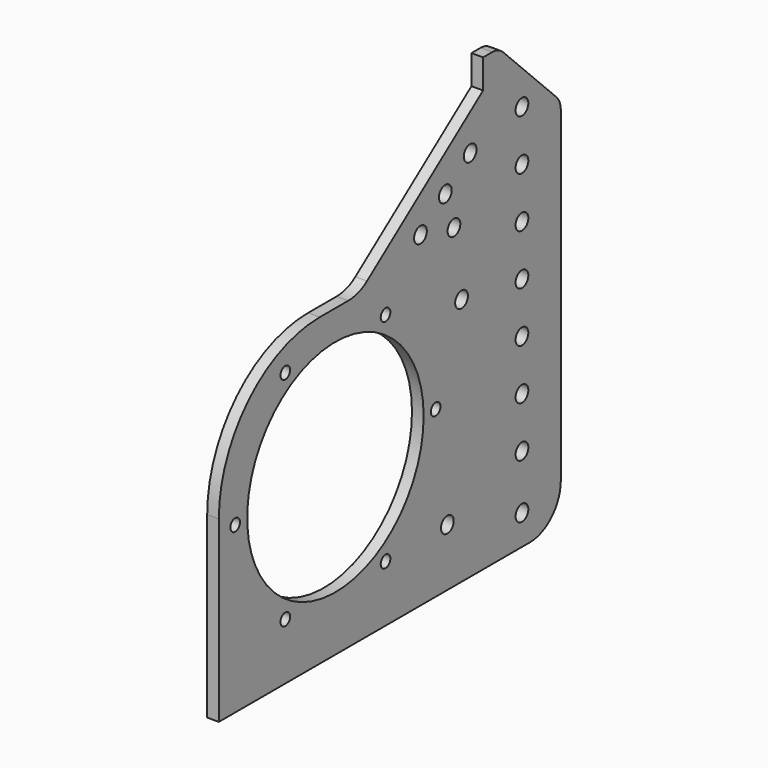
from build123d import *

# Parameters (mm, degrees)
F0_R     = 3.1
F0_R_2   = 56.75
F0_R_3   = 4.1
F1_DEPTH = 6


with BuildPart() as f1:
    # F0 (on Right) → F1 (new body)
    with BuildSketch(Plane.YZ):
        with BuildLine():
            Line((-220, 0), (-20, 0))
            ThreePointArc((-20, 0), (-5.857864, 5.857864), (0, 20))
            Line((0, 20), (0, 187.857864))
            ThreePointArc((0, 187.857864), (-0.761205, 191.684699), (-2.928932, 194.928932))
            Line((-2.928932, 194.928932), (-37.071068, 229.071068))
            ThreePointArc((-37.071068, 229.071068), (-40.315301, 231.238795), (-44.142136, 232))
            Line((-44.142136, 232), (-50, 232))
            Line((-50, 232), (-50, 217))
            Line((-50, 217), (-124.666667, 161))
            ThreePointArc((-124.666667, 161), (-130.342111, 158.026334), (-136.666667, 157))
            Line((-136.666667, 157), (-155, 157))
            ThreePointArc((-155, 157), (-200.961941, 137.961941), (-220, 92))
            Line((-220, 92), (-220, 0))
        make_face()
        with Locations((-177.25, 29.141361)):
            Circle(F0_R, mode=Mode.SUBTRACT)
        with Locations((-112.75, 29.141361)):
            Circle(F0_R, mode=Mode.SUBTRACT)
        with Locations((-209.5, 85)):
            Circle(F0_R, mode=Mode.SUBTRACT)
        with Locations((-145, 85)):
            Circle(F0_R_2, mode=Mode.SUBTRACT)
        with Locations((-72.986513, 29.659025)):
            Circle(F0_R_3, mode=Mode.SUBTRACT)
        with Locations((-25, 15.477134)):
            Circle(F0_R_3, mode=Mode.SUBTRACT)
        with Locations((-25, 43.423373)):
            Circle(F0_R_3, mode=Mode.SUBTRACT)
        with Locations((-80.5, 85)):
            Circle(F0_R, mode=Mode.SUBTRACT)
        with Locations((-25, 69.423373)):
            Circle(F0_R_3, mode=Mode.SUBTRACT)
        with Locations((-25, 95.423373)):
            Circle(F0_R_3, mode=Mode.SUBTRACT)
        with Locations((-177.25, 140.858639)):
            Circle(F0_R, mode=Mode.SUBTRACT)
        with Locations((-112.75, 140.858639)):
            Circle(F0_R, mode=Mode.SUBTRACT)
        with Locations((-63.867599, 127.938718)):
            Circle(F0_R_3, mode=Mode.SUBTRACT)
        with Locations((-90.302517, 168.023112)):
            Circle(F0_R_3, mode=Mode.SUBTRACT)
        with Locations((-68.746537, 162.530556)):
            Circle(F0_R_3, mode=Mode.SUBTRACT)
        with Locations((-25, 121.423373)):
            Circle(F0_R_3, mode=Mode.SUBTRACT)
        with Locations((-25, 147.423373)):
            Circle(F0_R_3, mode=Mode.SUBTRACT)
        with Locations((-25, 173.423373)):
            Circle(F0_R_3, mode=Mode.SUBTRACT)
        with Locations((-74.302517, 180.023112)):
            Circle(F0_R_3, mode=Mode.SUBTRACT)
        with Locations((-58.302517, 192.023112)):
            Circle(F0_R_3, mode=Mode.SUBTRACT)
        with Locations((-25, 199.423373)):
            Circle(F0_R_3, mode=Mode.SUBTRACT)
    extrude(amount=F1_DEPTH)


solid = f1.part
